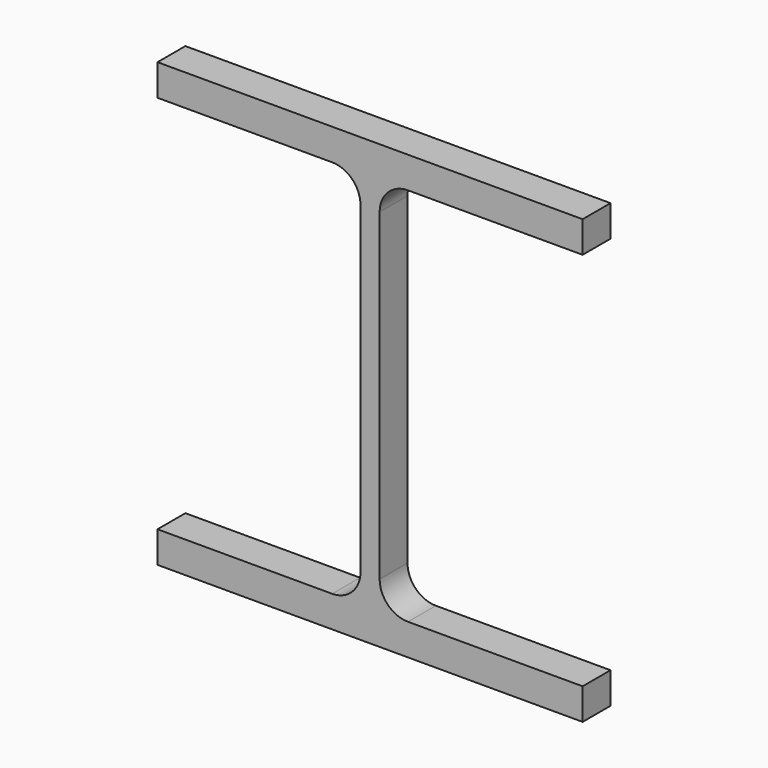
from build123d import *

# Parameters (mm, degrees)
F1_DEPTH = 25.4


with BuildPart() as f1:
    # F0 (on Front) → F1 (new body)
    with BuildSketch(Plane.XZ):
        with BuildLine():
            Line((154.94, 161.29), (-154.94, 161.29))
            Line((-154.94, 161.29), (-154.94, 138.43))
            Line((-154.94, 138.43), (-27.6225, 138.43))
            ThreePointArc((-27.6225, 138.43), (-13.029584, 132.385416), (-6.985, 117.7925))
            Line((-6.985, 117.7925), (-6.985, -117.7925))
            ThreePointArc((-6.985, -117.7925), (-13.029584, -132.385416), (-27.6225, -138.43))
            Line((-27.6225, -138.43), (-154.94, -138.43))
            Line((-154.94, -138.43), (-154.94, -161.29))
            Line((-154.94, -161.29), (154.94, -161.29))
            Line((154.94, -161.29), (154.94, -138.43))
            Line((154.94, -138.43), (27.6225, -138.43))
            ThreePointArc((27.6225, -138.43), (13.029584, -132.385416), (6.985, -117.7925))
            Line((6.985, -117.7925), (6.985, 117.7925))
            ThreePointArc((6.985, 117.7925), (13.029584, 132.385416), (27.6225, 138.43))
            Line((27.6225, 138.43), (154.94, 138.43))
            Line((154.94, 138.43), (154.94, 161.29))
        make_face()
    extrude(amount=F1_DEPTH)


solid = f1.part
